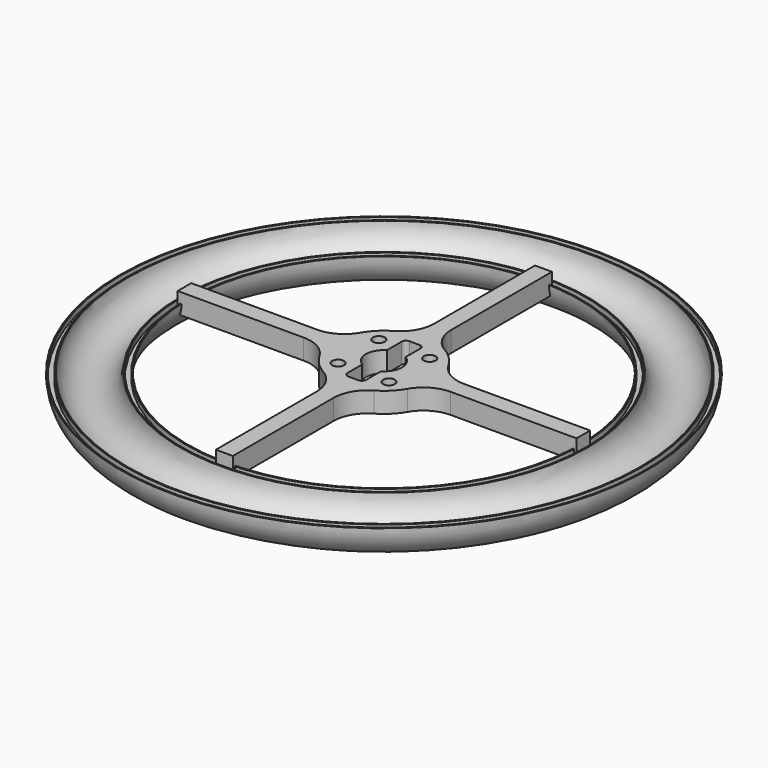
from build123d import *

# Parameters (mm, degrees)
F2_W          = 1.905
F2_H          = 1.905
F4_W          = 47.625
F4_H          = 6.35
F4_W_2        = 6.35
F4_H_2        = 47.625
F5_DEPTH      = 25.4
F7_W          = 6.35
F7_H          = 6.35
F8_DEPTH      = 3.81
F8_DEPTH_BACK = 3.81
F9_R          = 12.7
F11_DEPTH     = 25.4
F12_R         = 1.5875
F13_R         = 2.2225
F14_DEPTH     = 25.4


with BuildPart() as f1:
    # F0 (on Front) → F1 (revolve)
    with BuildSketch(Plane.XZ):
        with BuildLine():
            ThreePointArc((-76.2, 0), (-86.0425, -9.8425), (-95.885, 0))
            Line((-95.885, 0), (-98.7425, 0))
            ThreePointArc((-98.7425, 0), (-86.0425, -12.7), (-73.3425, 0))
            Line((-73.3425, 0), (-76.2, 0))
        make_face()
        with BuildLine():
            ThreePointArc((-76.2, 0), (-86.0425, -9.8425), (-95.885, 0))
            Line((-95.885, 0), (-98.7425, 0))
            ThreePointArc((-98.7425, 0), (-86.0425, -12.7), (-73.3425, 0))
            Line((-73.3425, 0), (-76.2, 0))
        make_face()
    revolve(axis=Axis((0, 0, 0), (0, 0, -1)))

    # F2 (on Front) → F3 (revolve, cut)
    with BuildSketch(Plane.XZ):
        with Locations((-97.31375, -0.9525)):
            Rectangle(F2_W, F2_H)
        with Locations((-74.77125, -0.9525)):
            Rectangle(F2_W, F2_H)
    revolve(axis=Axis((0, 0, 0), (0, 0, -1)), mode=Mode.SUBTRACT)


with BuildPart() as f5:
    # F4 (on face) → F5 (new body)
    with BuildSketch(Plane.XY):
        with Locations((-26.9875, 0)):
            Rectangle(F4_W, F4_H)
        with Locations((26.9875, 0)):
            Rectangle(F4_W, F4_H)
        with Locations((0, 26.9875)):
            Rectangle(F4_W_2, F4_H_2)
        with Locations((0, -26.9875)):
            Rectangle(F4_W_2, F4_H_2)
        Rectangle(F4_W_2, F4_H)
    extrude(amount=F5_DEPTH)


with BuildPart() as f8:
    # F7 (on Top) → F8 (new body, two sides)
    with BuildSketch(Plane.XY) as f8_sk:
        with BuildLine():
            Line((-18.7835533113, 3.175), (-74.6125, 3.175))
            Line((-74.6125, 3.175), (-74.6125, -3.175))
            Line((-74.6125, -3.175), (-18.7835533113, -3.175))
            ThreePointArc((-18.7835533113, -3.175), (-19.05, 0), (-18.7835533113, 3.175))
        make_face()
        with BuildLine():
            Line((74.6125, 3.175), (18.7835533113, 3.175))
            ThreePointArc((18.7835533113, 3.175), (18.9832714591, 1.5930802583), (19.05, 0))
            ThreePointArc((19.05, 0), (18.9832714591, -1.5930802583), (18.7835533113, -3.175))
            Line((18.7835533113, -3.175), (74.6125, -3.175))
            Line((74.6125, -3.175), (74.6125, 3.175))
        make_face()
        with BuildLine():
            Line((-3.175, 74.6125), (-3.175, 18.7835533113))
            ThreePointArc((-3.175, 18.7835533113), (0, 19.05), (3.175, 18.7835533113))
            Line((3.175, 18.7835533113), (3.175, 74.6125))
            Line((3.175, 74.6125), (-3.175, 74.6125))
        make_face()
        with BuildLine():
            ThreePointArc((3.175, -18.7835533113), (0, -19.05), (-3.175, -18.7835533113))
            Line((-3.175, -18.7835533113), (-3.175, -74.6125))
            Line((-3.175, -74.6125), (3.175, -74.6125))
            Line((3.175, -74.6125), (3.175, -18.7835533113))
        make_face()
        Rectangle(F7_W, F7_H)
        with BuildLine():
            Line((-3.175, 3.175), (-18.7835533113, 3.175))
            ThreePointArc((-18.7835533113, 3.175), (-19.05, 0), (-18.7835533113, -3.175))
            Line((-18.7835533113, -3.175), (-3.175, -3.175))
            Line((-3.175, -3.175), (-3.175, 3.175))
        make_face()
        with BuildLine():
            Line((18.7835533113, 3.175), (3.175, 3.175))
            Line((3.175, 3.175), (3.175, -3.175))
            Line((3.175, -3.175), (18.7835533113, -3.175))
            ThreePointArc((18.7835533113, -3.175), (18.9832714591, -1.5930802583), (19.05, 0))
            ThreePointArc((19.05, 0), (18.9832714591, 1.5930802583), (18.7835533113, 3.175))
        make_face()
        with BuildLine():
            Line((3.175, -3.175), (-3.175, -3.175))
            Line((-3.175, -3.175), (-3.175, -18.7835533113))
            ThreePointArc((-3.175, -18.7835533113), (0, -19.05), (3.175, -18.7835533113))
            Line((3.175, -18.7835533113), (3.175, -3.175))
        make_face()
        with BuildLine():
            Line((-3.175, 18.7835533113), (-3.175, 3.175))
            Line((-3.175, 3.175), (3.175, 3.175))
            Line((3.175, 3.175), (3.175, 18.7835533113))
            ThreePointArc((3.175, 18.7835533113), (0, 19.05), (-3.175, 18.7835533113))
        make_face()
        with BuildLine():
            Line((3.175, 18.7835533113), (3.175, 3.175))
            Line((3.175, 3.175), (18.7835533113, 3.175))
            ThreePointArc((18.7835533113, 3.175), (13.4703841816, 13.4703841816), (3.175, 18.7835533113))
        make_face()
        with BuildLine():
            ThreePointArc((-3.175, 18.7835533113), (-13.4703841816, 13.4703841816), (-18.7835533113, 3.175))
            Line((-18.7835533113, 3.175), (-3.175, 3.175))
            Line((-3.175, 3.175), (-3.175, 18.7835533113))
        make_face()
        with BuildLine():
            Line((-3.175, -3.175), (-18.7835533113, -3.175))
            ThreePointArc((-18.7835533113, -3.175), (-13.4703841816, -13.4703841816), (-3.175, -18.7835533113))
            Line((-3.175, -18.7835533113), (-3.175, -3.175))
        make_face()
        with BuildLine():
            Line((18.7835533113, -3.175), (3.175, -3.175))
            Line((3.175, -3.175), (3.175, -18.7835533113))
            ThreePointArc((3.175, -18.7835533113), (13.4703841816, -13.4703841816), (18.7835533113, -3.175))
        make_face()
    extrude(amount=F8_DEPTH)
    extrude(f8_sk.sketch, amount=-F8_DEPTH_BACK)

    # F9
    f9_edges = [f8.edges().sort_by_distance(p)[0] for p in [
        (3.175, -18.783553, 0),
        (18.783553, -3.175, 0),
        (-3.175, -18.783553, 0),
        (-18.783553, -3.175, 0),
        (-18.783553, 3.175, 0),
        (-3.175, 18.783553, 0),
        (3.175, 18.783553, 0),
        (18.783553, 3.175, 0),
    ]]
    fillet(f9_edges, radius=F9_R)

    # F10 (on face) → F11 (cut)
    with BuildSketch(Plane.XY.offset(3.81)):
        with BuildLine():
            Line((-3.4925, -5.7725874628), (-3.4925, 5.7725874628))
            ThreePointArc((-3.4925, 5.7725874628), (-6.746875, 0), (-3.4925, -5.7725874628))
        make_face()
        with BuildLine():
            ThreePointArc((3.4925, -5.7725874628), (5.8772350303, -3.313371495), (6.746875, 0))
            ThreePointArc((6.746875, 0), (5.8772350303, 3.313371495), (3.4925, 5.7725874628))
            Line((3.4925, 5.7725874628), (3.4925, -5.7725874628))
        make_face()
        with BuildLine():
            ThreePointArc((-3.4925, 5.7725874628), (0, 6.746875), (3.4925, 5.7725874628))
            Line((3.4925, 5.7725874628), (3.4925, 14.2875))
            Line((3.4925, 14.2875), (-3.4925, 14.2875))
            Line((-3.4925, 14.2875), (-3.4925, 5.7725874628))
        make_face()
        with BuildLine():
            Line((3.4925, -14.2875), (3.4925, -5.7725874628))
            ThreePointArc((3.4925, -5.7725874628), (0, -6.746875), (-3.4925, -5.7725874628))
            Line((-3.4925, -5.7725874628), (-3.4925, -14.2875))
            Line((-3.4925, -14.2875), (3.4925, -14.2875))
        make_face()
        with BuildLine():
            Line((3.4925, -5.7725874628), (3.4925, 5.7725874628))
            ThreePointArc((3.4925, 5.7725874628), (0, 6.746875), (-3.4925, 5.7725874628))
            Line((-3.4925, 5.7725874628), (-3.4925, -5.7725874628))
            ThreePointArc((-3.4925, -5.7725874628), (0, -6.746875), (3.4925, -5.7725874628))
        make_face()
    extrude(amount=-F11_DEPTH, mode=Mode.SUBTRACT)

    # F12
    f12_edges = [f8.edges().sort_by_distance(p)[0] for p in [
        (3.4925, 14.2875, 0),
        (3.4925, -14.2875, 0),
        (-3.4925, 14.2875, 0),
        (-3.4925, -14.2875, 0),
    ]]
    fillet(f12_edges, radius=F12_R)

    # F13 (on face) → F14 (cut)
    with BuildSketch(Plane(origin=(0, 0, -3.81), x_dir=(1, 0, 0), z_dir=(0, 0, -1))):
        with Locations((-9.525, 9.525)):
            Circle(F13_R)
        with Locations((9.525, 9.525)):
            Circle(F13_R)
        with Locations((9.525, -9.525)):
            Circle(F13_R)
        with Locations((-9.525, -9.525)):
            Circle(F13_R)
    extrude(amount=-F14_DEPTH, mode=Mode.SUBTRACT)


solid = Compound([f1.part, f8.part])
